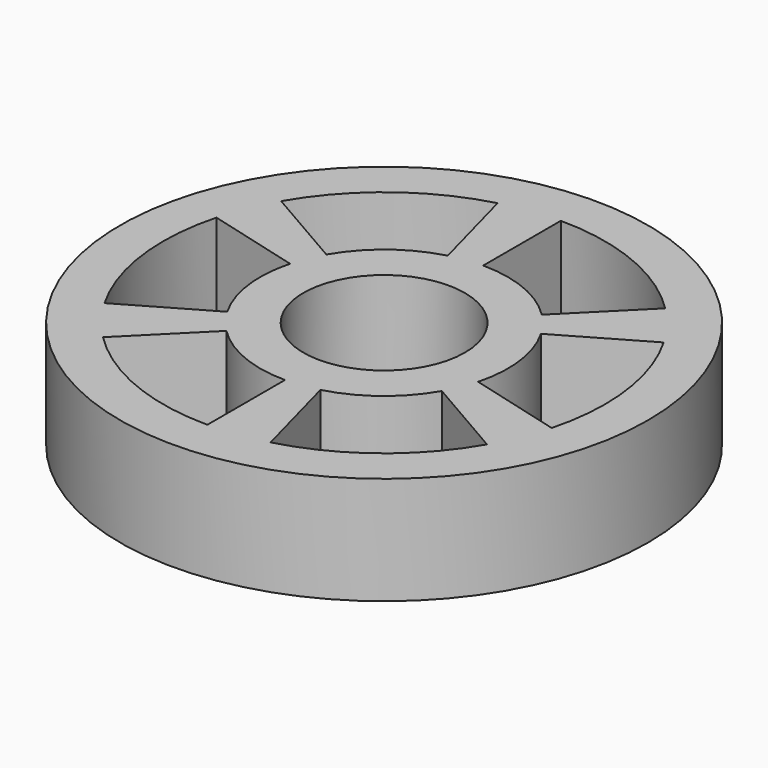
from build123d import *

# Parameters (mm, degrees)
F0_R     = 24.5
F0_R_2   = 7.5
F1_DEPTH = 10


with BuildPart() as f1:
    # F0 (on Top) → F1 (new body)
    with BuildSketch(Plane.XY):
        Circle(F0_R)
        with BuildLine():
            Line((0, -11.500001), (0, -20.500001))
            ThreePointArc((0, -20.500001), (-7.845011, -18.939531), (-14.49569, -14.49569))
            Line((-14.49569, -14.49569), (-8.131729, -8.131729))
            ThreePointArc((-8.131729, -8.131729), (-4.40086, -10.624615), (0, -11.500001))
        make_face(mode=Mode.SUBTRACT)
        with BuildLine():
            Line((-9.959293, -5.75), (-17.753521, -10.25))
            ThreePointArc((-17.753521, -10.25), (-20.32462, -2.675787), (-19.80148, 5.30579))
            Line((-19.80148, 5.30579), (-11.108148, 2.976419))
            ThreePointArc((-11.108148, 2.976419), (-11.401617, -1.501052), (-9.959293, -5.75))
        make_face(mode=Mode.SUBTRACT)
        Circle(F0_R_2, mode=Mode.SUBTRACT)
        with BuildLine():
            Line((9.959292, -5.750001), (17.753521, -10.250001))
            ThreePointArc((17.753521, -10.250001), (12.479609, -16.263744), (5.30579, -19.80148))
            Line((5.30579, -19.80148), (2.976419, -11.108148))
            ThreePointArc((2.976419, -11.108148), (7.000756, -9.123564), (9.959292, -5.750001))
        make_face(mode=Mode.SUBTRACT)
        with BuildLine():
            Line((-9.959293, 5.75), (-17.753521, 10.25))
            ThreePointArc((-17.753521, 10.25), (-12.47961, 16.263744), (-5.305791, 19.801479))
            Line((-5.305791, 19.801479), (-2.976419, 11.108147))
            ThreePointArc((-2.976419, 11.108147), (-7.000757, 9.123563), (-9.959293, 5.75))
        make_face(mode=Mode.SUBTRACT)
        with BuildLine():
            Line((9.959292, 5.75), (17.753521, 10.25))
            ThreePointArc((17.753521, 10.25), (20.32462, 2.675786), (19.80148, -5.305791))
            Line((19.80148, -5.305791), (11.108147, -2.97642))
            ThreePointArc((11.108147, -2.97642), (11.401616, 1.501051), (9.959292, 5.75))
        make_face(mode=Mode.SUBTRACT)
        with BuildLine():
            Line((0, 11.5), (0, 20.5))
            ThreePointArc((0, 20.5), (7.845011, 18.93953), (14.495689, 14.495689))
            Line((14.495689, 14.495689), (8.131728, 8.131728))
            ThreePointArc((8.131728, 8.131728), (4.40086, 10.624615), (0, 11.5))
        make_face(mode=Mode.SUBTRACT)
    extrude(amount=F1_DEPTH)


solid = f1.part
